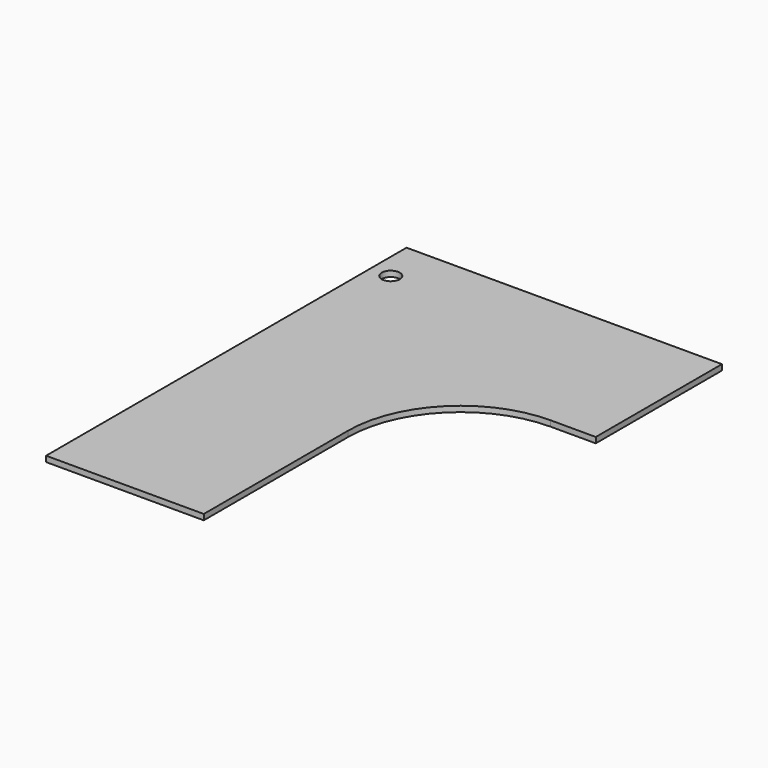
from build123d import *

# Parameters (mm, degrees)
F1_DEPTH = 25
F2_R     = 40
F3_DEPTH = 25


with BuildPart() as f1:
    # F0 (on Top) → F1 (new body)
    with BuildSketch(Plane.XY):
        with BuildLine():
            Line((1400, 0), (0, 0))
            Line((0, 0), (0, -2000))
            Line((0, -2000), (700, -2000))
            Line((700, -2000), (700, -1200))
            ThreePointArc((700, -1200), (846.446609, -846.446609), (1200, -700))
            Line((1200, -700), (1400, -700))
            Line((1400, -700), (1400, 0))
        make_face()
    extrude(amount=F1_DEPTH)

    # F2 (on face) → F3 (cut, through all)
    with BuildSketch(Plane.XY.offset(25)):
        with Locations((90, -200)):
            Circle(F2_R)
    extrude(amount=-F3_DEPTH, mode=Mode.SUBTRACT)


solid = f1.part
